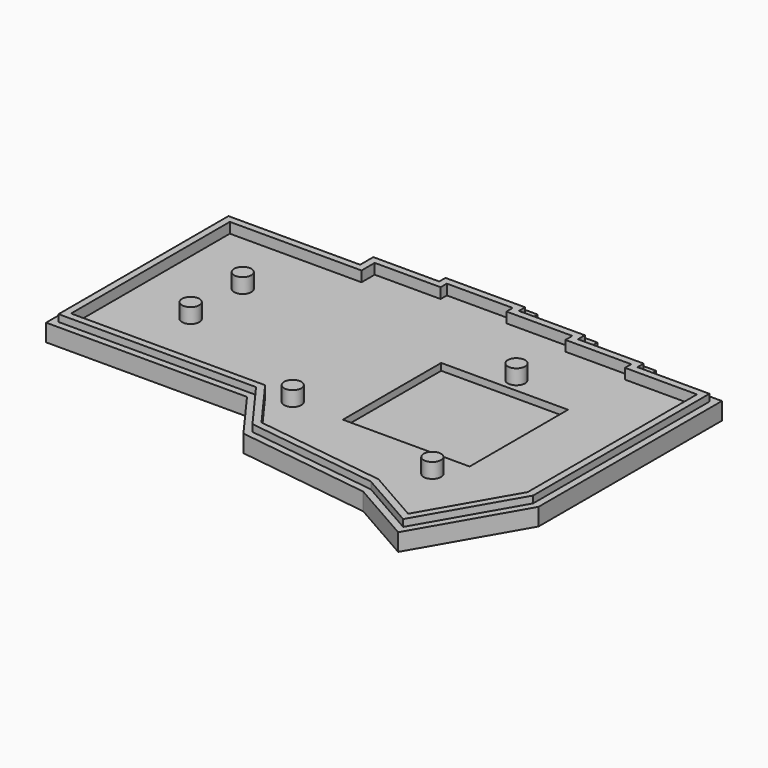
from build123d import *

# Parameters (mm, degrees)
PAD008_DEPTH        = 7
POCKET016_DEPTH     = 4
MIRROREDSKETCH012_R = 2.5
PAD009_DEPTH        = 8.3
POCKET017_DEPTH     = 2
MIRROREDSKETCH015_R = 5.5
POCKET019_DEPTH     = 0.5
SKETCH024_W         = 36.571793
SKETCH024_H         = 35.468334
POCKET022_DEPTH     = 2


with BuildPart() as part:
    # MirroredSketch010 → Pad008 (new body)
    with BuildSketch(Plane.XY.offset(-1)):
        Polygon((-4.5, 60.749919), (33.482443, 60.749919), (33.482443, 65.499919), (52.492443, 65.499919), (52.492443, 67.749919), (79.492443, 67.749919), (79.492443, 65.499919), (98.492443, 65.499919), (98.492443, 62.999919), (117.482443, 62.999919), (117.482443, 60.749919), (138.232443, 60.749919), (138.232443, -5.348885), (121.287497, -34.793261), (102.74032, -24.222717), (63.98748, -18.955575), (53.446293, -4.5), (-4.5, -4.5), align=None)
    extrude(amount=PAD008_DEPTH)

    # MirroredSketch011 → Pocket016 (cut)
    with BuildSketch(Plane.XY.offset(7)):
        Polygon((-0.5, -0.5), (-0.5, 56.75), (37.482443, 56.75), (37.482443, 61.499919), (56.492443, 61.499919), (56.492443, 63.749919), (75.492443, 63.749919), (75.492443, 61.499919), (94.492443, 61.499919), (94.492443, 58.999919), (113.482443, 58.999919), (113.482443, 56.749919), (134.232443, 56.749919), (134.232443, -4.280081), (119.807428, -29.345701), (104.047316, -20.363581), (66.215158, -15.221576), (55.48, -0.5), align=None)
    extrude(amount=-POCKET016_DEPTH, mode=Mode.SUBTRACT)

    # MirroredSketch012 → Pad009 (join)
    with BuildSketch(Plane.XY.offset(-1)):
        with Locations((18.61, 37.509997)):
            Circle(MIRROREDSKETCH012_R)
        with Locations((18.6, 18.76)):
            Circle(MIRROREDSKETCH012_R)
        with Locations((94.55, 41.252659)):
            Circle(MIRROREDSKETCH012_R)
        with Locations((61.84, 1.51)):
            Circle(MIRROREDSKETCH012_R)
        with Locations((108.3, -6.24)):
            Circle(MIRROREDSKETCH012_R)
    extrude(amount=PAD009_DEPTH)

    # MirroredSketch014 → Pocket017 (cut)
    with BuildSketch(Plane.XY.offset(6)):
        Polygon((-4.5, 60.749919), (33.482443, 60.749919), (33.482443, 65.499919), (52.492443, 65.499919), (52.492443, 67.749919), (79.492443, 67.749919), (79.492443, 65.499919), (98.492443, 65.499919), (98.492443, 62.999919), (117.482443, 62.999919), (117.482443, 60.749919), (138.232443, 60.749919), (138.232443, -5.348885), (121.287497, -34.793261), (102.74032, -24.222717), (63.98748, -18.955575), (53.446293, -4.5), (-4.5, -4.5), align=None)
        Polygon((-2.5, 58.75), (35.482443, 58.75), (35.482443, 63.499919), (54.492443, 63.499919), (54.492443, 65.749919), (77.492443, 65.749919), (77.492443, 63.499919), (96.492443, 63.499919), (96.492443, 60.999919), (115.482443, 60.999919), (115.482443, 58.749919), (136.232443, 58.749919), (136.232443, -4.814483), (120.547462, -32.069481), (103.393818, -22.293149), (65.101319, -17.088576), (54.463147, -2.5), (-2.5, -2.5), align=None, mode=Mode.SUBTRACT)
    extrude(amount=-POCKET017_DEPTH, mode=Mode.SUBTRACT)

    # MirroredSketch015 → Pocket019 (cut)
    with BuildSketch(Plane.XY.offset(-1)):
        with Locations((2.999251, 2.991994)):
            Circle(MIRROREDSKETCH015_R)
        with Locations((3, 53.216069)):
            Circle(MIRROREDSKETCH015_R)
        with Locations((130.730277, 53.25)):
            Circle(MIRROREDSKETCH015_R)
        with Locations((118.51162, -24.561471)):
            Circle(MIRROREDSKETCH015_R)
        with Locations((64.615, 31.403258)):
            Circle(MIRROREDSKETCH015_R)
    extrude(amount=POCKET019_DEPTH, mode=Mode.SUBTRACT)

    # Sketch024 → Pocket022 (cut)
    with BuildSketch(Plane.XY.offset(3)):
        with Locations((94.342338, 19.530172)):
            Rectangle(SKETCH024_W, SKETCH024_H)
    extrude(amount=-POCKET022_DEPTH, mode=Mode.SUBTRACT)


with BuildPart() as part_1:
    # Body008 placement: moved
    add(part.part.moved(Location((0, 0, -4))))


solid = part_1.part
